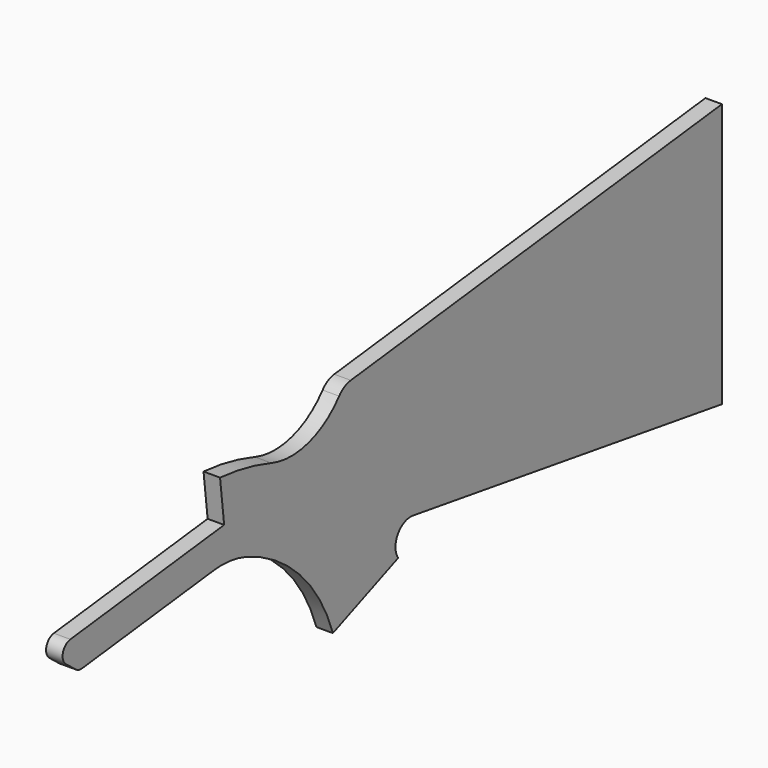
from build123d import *

# Parameters (mm, degrees)
F1_DEPTH = 4.7625


with BuildPart() as f1:
    # F0 (on Right) → F1 (new body, symmetric)
    with BuildSketch(Plane.YZ):
        with BuildLine():
            Line((178.64784, -78.256549), (178.64784, 74.143451))
            Line((178.64784, 74.143451), (-89.029852, 42.679582))
            ThreePointArc((-89.029852, 42.679582), (-93.675787, 41.189865), (-97.417243, 38.058494))
            ThreePointArc((-97.417243, 38.058494), (-119.633425, 23.324748), (-146.283933, 23.951184))
            ThreePointArc((-146.283933, 23.951184), (-164.555034, 28.926971), (-183.30216, 31.598451))
            Line((-183.30216, 31.598451), (-180.33696, 6.372124))
            Line((-180.33696, 6.372124), (-291.243161, -6.664219))
            ThreePointArc((-291.243161, -6.664219), (-296.612067, -11.242249), (-294.43711, -17.954406))
            Line((-294.43711, -17.954406), (-287.389228, -23.519688))
            ThreePointArc((-287.389228, -23.519688), (-285.182532, -24.646288), (-282.71268, -24.842665))
            Line((-282.71268, -24.842665), (-187.686579, -13.67293))
            ThreePointArc((-187.686579, -13.67293), (-176.18102, -13.63024), (-164.959982, -16.173468))
            ThreePointArc((-164.959982, -16.173468), (-125.920012, -40.965213), (-101.91306, -80.492622))
            Line((-101.91306, -80.492622), (-54.8202, -61.442622))
            ThreePointArc((-54.8202, -61.442622), (-55.877698, -59.54941), (-56.543876, -57.485735))
            ThreePointArc((-56.543876, -57.485735), (-53.806121, -47.605216), (-44.114969, -44.258345))
            Line((-44.114969, -44.258345), (178.64784, -78.256549))
        make_face()
    extrude(amount=F1_DEPTH, both=True)


solid = f1.part
